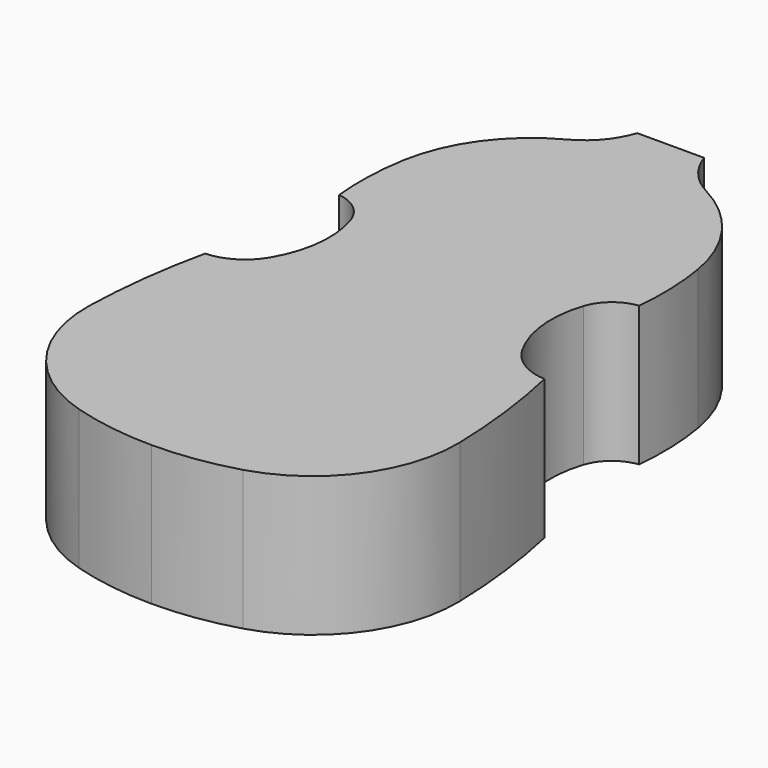
from build123d import *

# Parameters (mm, degrees)
F10_DEPTH = 140


with BuildPart() as f10:
    # F9 (on Top) → F10 (new body)
    with BuildSketch(Plane.XY):
        with BuildLine():
            ThreePointArc((69.755036, 318.288243), (47.466276, 336.176653), (33.5, 361.111111))
            Line((33.5, 361.111111), (0, 361.111111))
            Line((0, 361.111111), (0, -288.888889))
            ThreePointArc((0, -288.888889), (41.535258, -285.887412), (82.207437, -276.945351))
            ThreePointArc((82.207437, -276.945351), (157.962958, -223.373298), (185.500699, -134.770043))
            ThreePointArc((185.500699, -134.770043), (180.810697, -71.741108), (170.021453, -9.465632))
            ThreePointArc((170.021453, -9.465632), (144.850807, -1.69841), (126.320477, 17.023717))
            ThreePointArc((126.320477, 17.023717), (111.839131, 60.501412), (116.628792, 106.076389))
            ThreePointArc((116.628792, 106.076389), (129.409173, 124.753566), (150.199327, 133.69474))
            ThreePointArc((150.199327, 133.69474), (151.569678, 172.387538), (147.671605, 210.907864))
            ThreePointArc((147.671605, 210.907864), (121.248598, 273.69381), (69.755036, 318.288243))
        make_face()
    extrude(amount=-F10_DEPTH)

    # F11: F10 across face


with BuildPart() as f10_1:
    add(f10.part)
    add(f10.part.mirror(Plane(origin=(0, 36.111111, -70), x_dir=(0, -1, 0), z_dir=(-1, 0, 0))))


solid = f10_1.part
